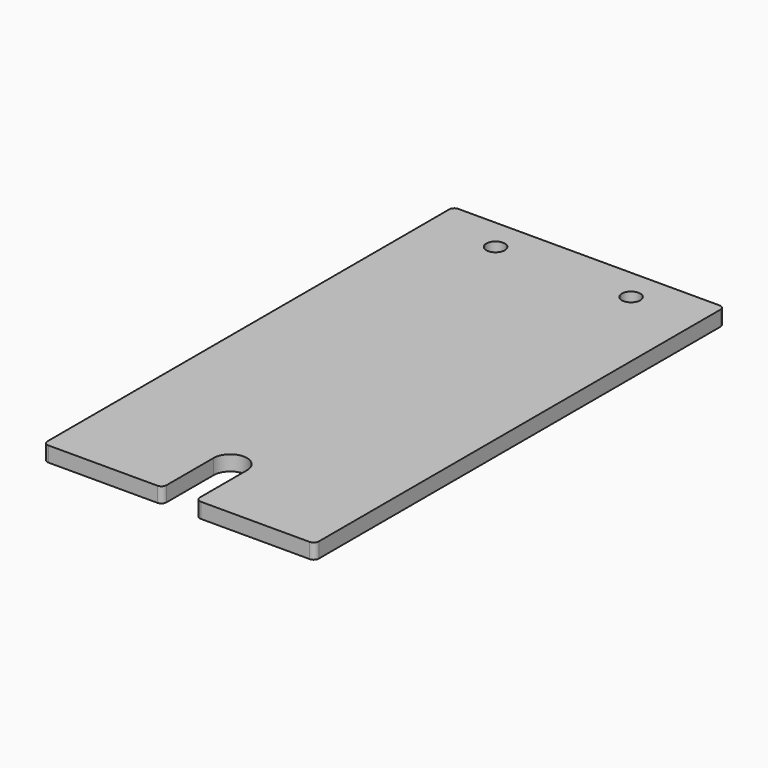
from build123d import *

# Parameters (mm, degrees)
SKETCH_R  = 1.8288
PAD_DEPTH = 3


with BuildPart() as part:
    # Sketch → Pad (new body)
    with BuildSketch(Plane.XY):
        with BuildLine():
            ThreePointArc((-25.9, 50.8), (-26.607107, 50.507107), (-26.9, 49.8))
            Line((-26.9, -49.8), (-26.9, 49.8))
            ThreePointArc((-26.9, -49.8), (-26.607107, -50.507107), (-25.9, -50.8))
            Line((-25.9, -50.8), (-4.302, -50.8))
            ThreePointArc((-4.302, -50.8), (-3.594893, -50.507107), (-3.302, -49.8))
            Line((-3.302, -38.1), (-3.302, -49.8))
            ThreePointArc((3.302, -38.1), (0, -34.798), (-3.302, -38.1))
            Line((3.302, -38.1), (3.302, -49.8))
            ThreePointArc((3.302, -49.8), (3.594893, -50.507107), (4.302, -50.8))
            Line((4.302, -50.8), (25.9, -50.8))
            ThreePointArc((25.9, -50.8), (26.607107, -50.507107), (26.9, -49.8))
            Line((26.9, 49.8), (26.9, -49.8))
            ThreePointArc((26.9, 49.8), (26.607107, 50.507107), (25.9, 50.8))
            Line((-25.9, 50.8), (25.9, 50.8))
        make_face()
        with Locations((-13.4352, 44.45)):
            Circle(SKETCH_R, mode=Mode.SUBTRACT)
        with Locations((13.4352, 44.45)):
            Circle(SKETCH_R, mode=Mode.SUBTRACT)
    extrude(amount=PAD_DEPTH)


solid = part.part
